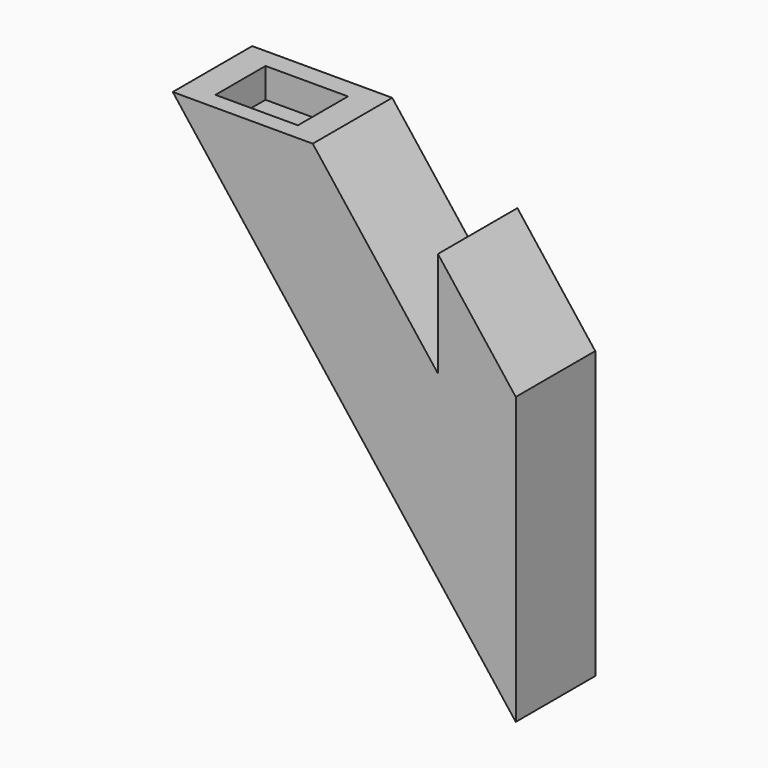
from build123d import *

# Parameters (mm, degrees)
F1_DEPTH = 10
F2_W     = 8.3
F2_H     = 6.3
F3_DEPTH = 3


with BuildPart() as f1:
    # F0 (on Front) → F1 (new body)
    with BuildSketch(Plane.XZ):
        Polygon((14.091946, 0), (0, 0), (34.529055, -44.594892), (34.529055, -15.794892), (26.692673, -5.674065), (26.692673, -16.274065), align=None)
    extrude(amount=F1_DEPTH)

    # F2 (on Top) → F3 (cut)
    with BuildSketch(Plane.XY):
        with Locations((7.079836, -5.139073)):
            Rectangle(F2_W, F2_H)
    extrude(amount=-F3_DEPTH, mode=Mode.SUBTRACT)


solid = f1.part
